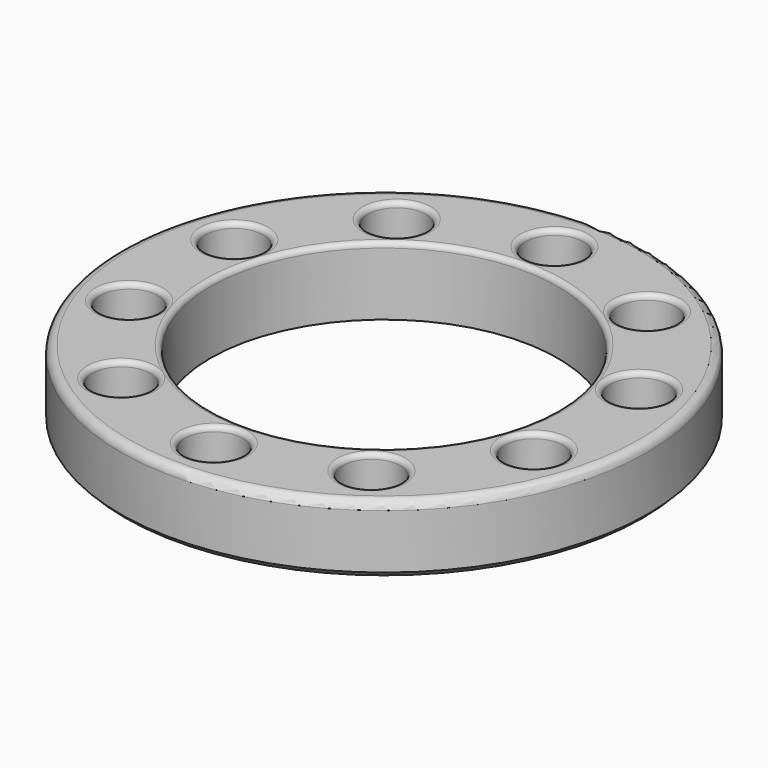
from build123d import *

# Parameters (mm, degrees)
CYLINDER075_R             = 10.2
CYLINDER075_DEPTH         = 4
CYLINDER089_R             = 1.7
CYLINDER089_DEPTH         = 2
CYLINDER088_R             = 1.7
CYLINDER088_DEPTH         = 2
FUSION042_PLACEMENT_ANGLE = 54
CYLINDER095_R             = 1.7
CYLINDER095_DEPTH         = 2
CYLINDER094_R             = 1.7
CYLINDER094_DEPTH         = 2
FUSION046_PLACEMENT_ANGLE = 162
CYLINDER093_R             = 1.7
CYLINDER093_DEPTH         = 2
CYLINDER092_R             = 1.7
CYLINDER092_DEPTH         = 2
FUSION045_PLACEMENT_ANGLE = 126
CYLINDER091_R             = 1.7
CYLINDER091_DEPTH         = 2
CYLINDER090_R             = 1.7
CYLINDER090_DEPTH         = 2
FUSION044_PLACEMENT_ANGLE = 90
CYLINDER087_R             = 1.7
CYLINDER087_DEPTH         = 2
CYLINDER086_R             = 1.7
CYLINDER086_DEPTH         = 2
FUSION043_PLACEMENT_ANGLE = 18
CYLINDER079_R             = 2
CYLINDER079_DEPTH         = 10
CYLINDER078_R             = 2
CYLINDER078_DEPTH         = 10
FUSION036_PLACEMENT_ANGLE = 54
CYLINDER085_R             = 2
CYLINDER085_DEPTH         = 10
CYLINDER084_R             = 2
CYLINDER084_DEPTH         = 10
FUSION040_PLACEMENT_ANGLE = 162
CYLINDER083_R             = 2
CYLINDER083_DEPTH         = 10
CYLINDER082_R             = 2
CYLINDER082_DEPTH         = 10
FUSION039_PLACEMENT_ANGLE = 126
CYLINDER081_R             = 2
CYLINDER081_DEPTH         = 10
CYLINDER080_R             = 2
CYLINDER080_DEPTH         = 10
FUSION038_PLACEMENT_ANGLE = 90
CYLINDER077_R             = 2
CYLINDER077_DEPTH         = 10
CYLINDER076_R             = 2
CYLINDER076_DEPTH         = 10
FUSION037_PLACEMENT_ANGLE = 18
CYLINDER074_R             = 15.5
CYLINDER074_DEPTH         = 4
FILLET008_R               = 0.5
FILLET009_R               = 0.3
CHAMFER003_SIZE           = 0.3
FILLET010_R               = 0.299


with BuildPart() as cylinder075:
    # Cylinder075 → Cylinder075 (new body)
    with BuildSketch(Plane.XY.offset(22)):
        Circle(CYLINDER075_R)
    extrude(amount=CYLINDER075_DEPTH)


with BuildPart() as cylinder089:
    # Cylinder089 → Cylinder089 (new body)
    with BuildSketch(Plane(origin=(-12.5, 0, 13), x_dir=(1, 0, 0), z_dir=(0, 0, 1))):
        Circle(CYLINDER089_R)
    extrude(amount=CYLINDER089_DEPTH)


with BuildPart() as fusion042:
    # Cylinder088 → Cylinder088 (new body)
    with BuildSketch(Plane(origin=(12.5, 0, 13), x_dir=(1, 0, 0), z_dir=(0, 0, 1))):
        Circle(CYLINDER088_R)
    extrude(amount=CYLINDER088_DEPTH)

    # Fusion042: union Cylinder089
    add(cylinder089.part)


with BuildPart() as fusion042_1:
    # Fusion042 placement: moved
    add(fusion042.part.rotate(Axis((0, 0, 0), (0, 0, 1)), FUSION042_PLACEMENT_ANGLE))


with BuildPart() as cylinder095:
    # Cylinder095 → Cylinder095 (new body)
    with BuildSketch(Plane(origin=(-12.5, 0, 13), x_dir=(1, 0, 0), z_dir=(0, 0, 1))):
        Circle(CYLINDER095_R)
    extrude(amount=CYLINDER095_DEPTH)


with BuildPart() as fusion046:
    # Cylinder094 → Cylinder094 (new body)
    with BuildSketch(Plane(origin=(12.5, 0, 13), x_dir=(1, 0, 0), z_dir=(0, 0, 1))):
        Circle(CYLINDER094_R)
    extrude(amount=CYLINDER094_DEPTH)

    # Fusion046: union Cylinder095
    add(cylinder095.part)


with BuildPart() as fusion046_1:
    # Fusion046 placement: moved
    add(fusion046.part.rotate(Axis((0, 0, 0), (0, 0, 1)), FUSION046_PLACEMENT_ANGLE))


with BuildPart() as cylinder093:
    # Cylinder093 → Cylinder093 (new body)
    with BuildSketch(Plane(origin=(-12.5, 0, 13), x_dir=(1, 0, 0), z_dir=(0, 0, 1))):
        Circle(CYLINDER093_R)
    extrude(amount=CYLINDER093_DEPTH)


with BuildPart() as fusion045:
    # Cylinder092 → Cylinder092 (new body)
    with BuildSketch(Plane(origin=(12.5, 0, 13), x_dir=(1, 0, 0), z_dir=(0, 0, 1))):
        Circle(CYLINDER092_R)
    extrude(amount=CYLINDER092_DEPTH)

    # Fusion045: union Cylinder093
    add(cylinder093.part)


with BuildPart() as fusion045_1:
    # Fusion045 placement: moved
    add(fusion045.part.rotate(Axis((0, 0, 0), (0, 0, 1)), FUSION045_PLACEMENT_ANGLE))


with BuildPart() as cylinder091:
    # Cylinder091 → Cylinder091 (new body)
    with BuildSketch(Plane(origin=(-12.5, 0, 13), x_dir=(1, 0, 0), z_dir=(0, 0, 1))):
        Circle(CYLINDER091_R)
    extrude(amount=CYLINDER091_DEPTH)


with BuildPart() as fusion044:
    # Cylinder090 → Cylinder090 (new body)
    with BuildSketch(Plane(origin=(12.5, 0, 13), x_dir=(1, 0, 0), z_dir=(0, 0, 1))):
        Circle(CYLINDER090_R)
    extrude(amount=CYLINDER090_DEPTH)

    # Fusion044: union Cylinder091
    add(cylinder091.part)


with BuildPart() as fusion044_1:
    # Fusion044 placement: moved
    add(fusion044.part.rotate(Axis((0, 0, 0), (0, 0, 1)), FUSION044_PLACEMENT_ANGLE))


with BuildPart() as cylinder087:
    # Cylinder087 → Cylinder087 (new body)
    with BuildSketch(Plane(origin=(-12.5, 0, 13), x_dir=(1, 0, 0), z_dir=(0, 0, 1))):
        Circle(CYLINDER087_R)
    extrude(amount=CYLINDER087_DEPTH)


with BuildPart() as fusion041:
    # Cylinder086 → Cylinder086 (new body)
    with BuildSketch(Plane(origin=(12.5, 0, 13), x_dir=(1, 0, 0), z_dir=(0, 0, 1))):
        Circle(CYLINDER086_R)
    extrude(amount=CYLINDER086_DEPTH)

    # Fusion043: union Cylinder087
    add(cylinder087.part)


with BuildPart() as fusion041_1:
    # Fusion043 placement: moved
    add(fusion041.part.rotate(Axis((0, 0, 0), (0, 0, 1)), FUSION043_PLACEMENT_ANGLE))

    # Fusion041: union Fusion042, Fusion046, Fusion045, Fusion044
    add(fusion042_1.part)
    add(fusion046_1.part)
    add(fusion045_1.part)
    add(fusion044_1.part)


with BuildPart() as fusion041_2:
    # Fusion041 placement: moved
    add(fusion041_1.part.moved(Location((0, 0, 11))))


with BuildPart() as cylinder079:
    # Cylinder079 → Cylinder079 (new body)
    with BuildSketch(Plane(origin=(-12.5, 0, 13), x_dir=(1, 0, 0), z_dir=(0, 0, 1))):
        Circle(CYLINDER079_R)
    extrude(amount=CYLINDER079_DEPTH)


with BuildPart() as fusion036:
    # Cylinder078 → Cylinder078 (new body)
    with BuildSketch(Plane(origin=(12.5, 0, 13), x_dir=(1, 0, 0), z_dir=(0, 0, 1))):
        Circle(CYLINDER078_R)
    extrude(amount=CYLINDER078_DEPTH)

    # Fusion036: union Cylinder079
    add(cylinder079.part)


with BuildPart() as fusion036_1:
    # Fusion036 placement: moved
    add(fusion036.part.rotate(Axis((0, 0, 0), (0, 0, 1)), FUSION036_PLACEMENT_ANGLE))


with BuildPart() as cylinder085:
    # Cylinder085 → Cylinder085 (new body)
    with BuildSketch(Plane(origin=(-12.5, 0, 13), x_dir=(1, 0, 0), z_dir=(0, 0, 1))):
        Circle(CYLINDER085_R)
    extrude(amount=CYLINDER085_DEPTH)


with BuildPart() as fusion040:
    # Cylinder084 → Cylinder084 (new body)
    with BuildSketch(Plane(origin=(12.5, 0, 13), x_dir=(1, 0, 0), z_dir=(0, 0, 1))):
        Circle(CYLINDER084_R)
    extrude(amount=CYLINDER084_DEPTH)

    # Fusion040: union Cylinder085
    add(cylinder085.part)


with BuildPart() as fusion040_1:
    # Fusion040 placement: moved
    add(fusion040.part.rotate(Axis((0, 0, 0), (0, 0, 1)), FUSION040_PLACEMENT_ANGLE))


with BuildPart() as cylinder083:
    # Cylinder083 → Cylinder083 (new body)
    with BuildSketch(Plane(origin=(-12.5, 0, 13), x_dir=(1, 0, 0), z_dir=(0, 0, 1))):
        Circle(CYLINDER083_R)
    extrude(amount=CYLINDER083_DEPTH)


with BuildPart() as fusion039:
    # Cylinder082 → Cylinder082 (new body)
    with BuildSketch(Plane(origin=(12.5, 0, 13), x_dir=(1, 0, 0), z_dir=(0, 0, 1))):
        Circle(CYLINDER082_R)
    extrude(amount=CYLINDER082_DEPTH)

    # Fusion039: union Cylinder083
    add(cylinder083.part)


with BuildPart() as fusion039_1:
    # Fusion039 placement: moved
    add(fusion039.part.rotate(Axis((0, 0, 0), (0, 0, 1)), FUSION039_PLACEMENT_ANGLE))


with BuildPart() as cylinder081:
    # Cylinder081 → Cylinder081 (new body)
    with BuildSketch(Plane(origin=(-12.5, 0, 13), x_dir=(1, 0, 0), z_dir=(0, 0, 1))):
        Circle(CYLINDER081_R)
    extrude(amount=CYLINDER081_DEPTH)


with BuildPart() as fusion038:
    # Cylinder080 → Cylinder080 (new body)
    with BuildSketch(Plane(origin=(12.5, 0, 13), x_dir=(1, 0, 0), z_dir=(0, 0, 1))):
        Circle(CYLINDER080_R)
    extrude(amount=CYLINDER080_DEPTH)

    # Fusion038: union Cylinder081
    add(cylinder081.part)


with BuildPart() as fusion038_1:
    # Fusion038 placement: moved
    add(fusion038.part.rotate(Axis((0, 0, 0), (0, 0, 1)), FUSION038_PLACEMENT_ANGLE))


with BuildPart() as cylinder077:
    # Cylinder077 → Cylinder077 (new body)
    with BuildSketch(Plane(origin=(-12.5, 0, 13), x_dir=(1, 0, 0), z_dir=(0, 0, 1))):
        Circle(CYLINDER077_R)
    extrude(amount=CYLINDER077_DEPTH)


with BuildPart() as fusion047:
    # Cylinder076 → Cylinder076 (new body)
    with BuildSketch(Plane(origin=(12.5, 0, 13), x_dir=(1, 0, 0), z_dir=(0, 0, 1))):
        Circle(CYLINDER076_R)
    extrude(amount=CYLINDER076_DEPTH)

    # Fusion037: union Cylinder077
    add(cylinder077.part)


with BuildPart() as fusion047_1:
    # Fusion037 placement: moved
    add(fusion047.part.rotate(Axis((0, 0, 0), (0, 0, 1)), FUSION037_PLACEMENT_ANGLE))

    # Fusion035: union Fusion036, Fusion040, Fusion039, Fusion038
    add(fusion036_1.part)
    add(fusion040_1.part)
    add(fusion039_1.part)
    add(fusion038_1.part)


with BuildPart() as fusion047_2:
    # Fusion035 placement: moved
    add(fusion047_1.part.moved(Location((0, 0, 1))))

    # Fusion047: union Fusion041
    add(fusion041_2.part)


with BuildPart() as fillet010:
    # Cylinder074 → Cylinder074 (new body)
    with BuildSketch(Plane.XY.offset(22)):
        Circle(CYLINDER074_R)
    extrude(amount=CYLINDER074_DEPTH)

    # Cut023: cut Fusion047
    add(fusion047_2.part, mode=Mode.SUBTRACT)

    # Cut024: cut Cylinder075
    add(cylinder075.part, mode=Mode.SUBTRACT)

    # Fillet008
    fillet008_edges = [fillet010.edges().sort_by_distance(p)[0] for p in [
        (-15.5, 0, 26),
    ]]
    fillet(fillet008_edges, radius=FILLET008_R)

    # Fillet009
    fillet009_edges = [fillet010.edges().sort_by_distance(p)[0] for p in [
        (-10.2, 0, 26),
    ]]
    fillet(fillet009_edges, radius=FILLET009_R)

    # Chamfer003
    chamfer003_edges = [fillet010.edges().sort_by_distance(p)[0] for p in [
        (-15.5, 0, 22),
    ]]
    chamfer(chamfer003_edges, length=CHAMFER003_SIZE)

    # Fillet010
    fillet010_edges = [fillet010.edges().sort_by_distance(p)[0] for p in [
        (6.348081, 8.737384, 26),
        (-13.505003, -4.388041, 26),
        (-10.27141, 3.337384, 26),
        (13.505003, -4.388041, 26),
        (-6.348081, 8.737384, 26),
        (0, 10.8, 26),
        (10.27141, 3.337384, 26),
        (-8.346551, -11.488041, 26),
        (0, -14.2, 26),
        (8.346551, -11.488041, 26),
    ]]
    fillet(fillet010_edges, radius=FILLET010_R)


solid = fillet010.part
